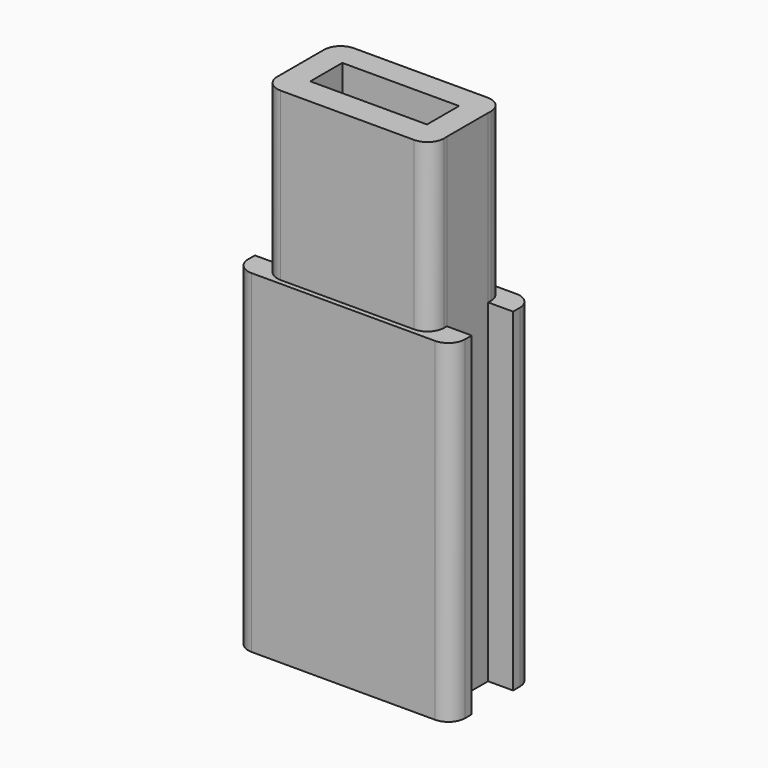
from build123d import *

# Parameters (mm, degrees)
F0_W     = 7
F0_H     = 2.3
F1_DEPTH = 20
F3_DEPTH = 10
F4_R     = 1
F5_R     = 1


with BuildPart() as f1:
    # F0 (on Top) → F1 (new body)
    with BuildSketch(Plane.XY):
        Polygon((6.5, 3.05), (-6.5, 3.05), (-6.5, 1.55), (-5, 1.55), (-5, -1.55), (-6.5, -1.55), (-6.5, -3.05), (6.5, -3.05), (6.5, -1.55), (5, -1.55), (5, 1.55), (6.5, 1.55), align=None)
        Rectangle(F0_W, F0_H, mode=Mode.SUBTRACT)
    extrude(amount=F1_DEPTH)

    # F2 (on face) → F3 (join)
    with BuildSketch(Plane.XY.offset(20)):
        Polygon((-5, -1.55), (-5, -2.75), (5.006821, -2.75), (5.006821, -1.55), (5, -1.55), (5, 1.55), (5.006821, 1.55), (5.006821, 2.75), (-5, 2.75), (-5, 1.55), align=None)
        Polygon((3.5, -1.15), (-3.5, -1.15), (-3.5, 1.15), (-3.5, 1.25), (3.5, 1.25), (3.5, 1.15), align=None, mode=Mode.SUBTRACT)
    extrude(amount=F3_DEPTH)

    # F4
    f4_edges = [f1.edges().sort_by_distance(p)[0] for p in [
        (-5, 2.75, 25),
        (-5, -2.75, 25),
        (5.006821, 2.75, 25),
        (5.006821, -2.75, 25),
    ]]
    fillet(f4_edges, radius=F4_R)

    # F5
    f5_edges = [f1.edges().sort_by_distance(p)[0] for p in [
        (-6.5, 3.05, 10),
        (-6.5, -3.05, 10),
        (6.5, 3.05, 10),
        (6.5, -3.05, 10),
    ]]
    fillet(f5_edges, radius=F5_R)


solid = f1.part
